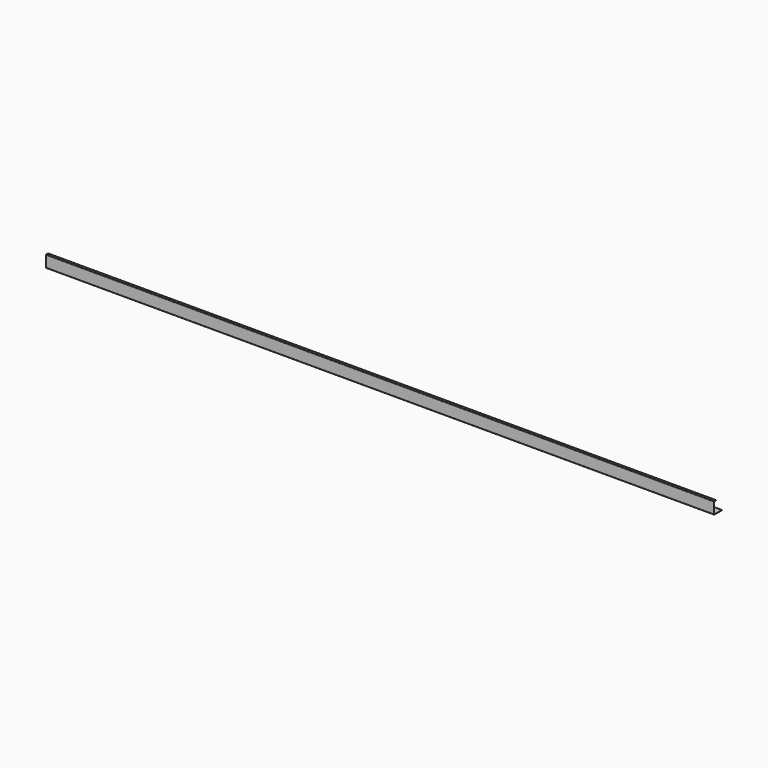
from build123d import *

# Parameters (mm, degrees)
F1_DEPTH = 1340


with BuildPart() as f1:
    # F0 (on Right) → F1 (new body)
    with BuildSketch(Plane.YZ):
        with BuildLine():
            Line((-9, -12), (10, -12))
            Line((10, -12), (10, -11.5))
            Line((10, -11.5), (-9, -11.5))
            ThreePointArc((-9, -11.5), (-9.353553, -11.353553), (-9.5, -11))
            Line((-9.5, -11), (-9.5, 11))
            ThreePointArc((-9.5, 11), (-9.353553, 11.353553), (-9, 11.5))
            Line((-9, 11.5), (-5, 11.5))
            Line((-5, 11.5), (-5, 12))
            Line((-5, 12), (-9, 12))
            ThreePointArc((-9, 12), (-9.707107, 11.707107), (-10, 11))
            Line((-10, 11), (-10, -11))
            ThreePointArc((-10, -11), (-9.707107, -11.707107), (-9, -12))
        make_face()
    extrude(amount=-F1_DEPTH)


solid = f1.part
